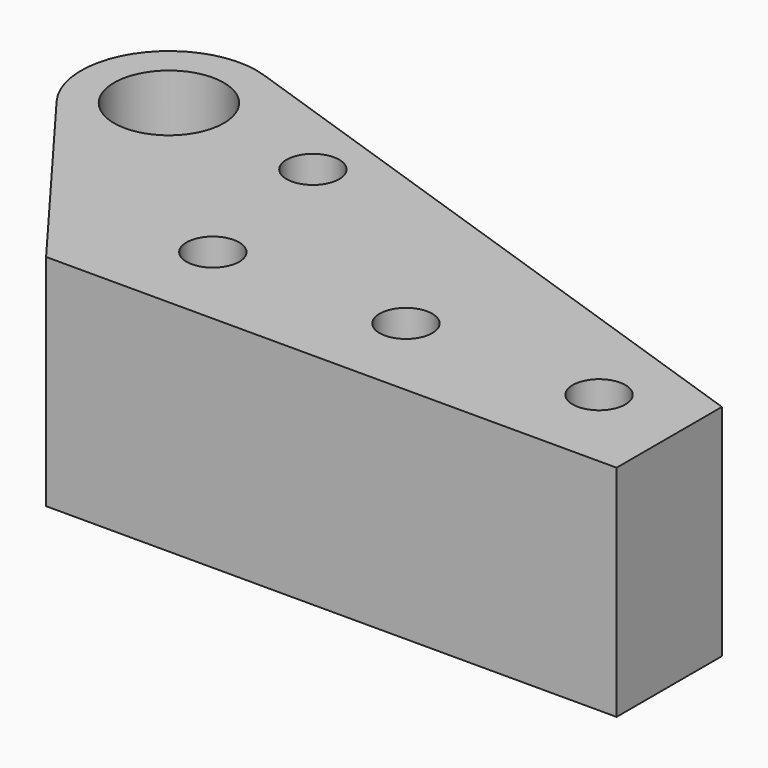
from build123d import *

# Parameters (mm, degrees)
F0_R     = 3
F0_R_2   = 6.25
F1_DEPTH = 25


with BuildPart() as f1:
    # F0 (on Top) → F1 (new body)
    with BuildSketch(Plane.XY):
        with BuildLine():
            Line((32, 5), (-39.773622, 29.465225))
            ThreePointArc((-39.773622, 29.465225), (-51.092599, 25.874508), (-51, 14))
            Line((-51, 14), (-33, -10))
            Line((-33, -10), (32, -10))
            Line((32, -10), (32, 5))
        make_face()
        with Locations((-22, 0)):
            Circle(F0_R, mode=Mode.SUBTRACT)
        Circle(F0_R, mode=Mode.SUBTRACT)
        with Locations((22, 0)):
            Circle(F0_R, mode=Mode.SUBTRACT)
        with Locations((-25, 18)):
            Circle(F0_R, mode=Mode.SUBTRACT)
        with Locations((-43, 20)):
            Circle(F0_R_2, mode=Mode.SUBTRACT)
    extrude(amount=F1_DEPTH)


solid = f1.part
